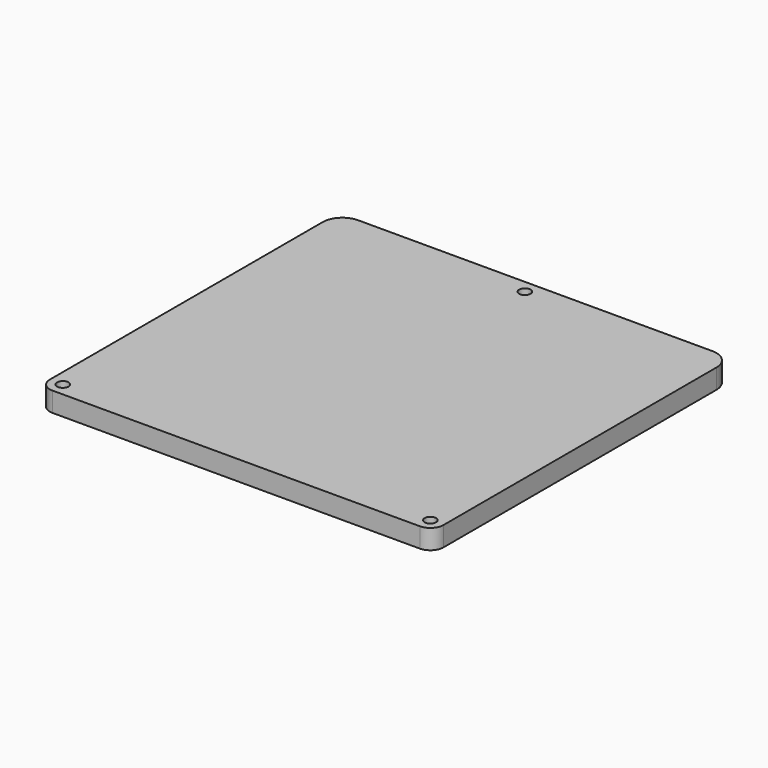
from build123d import *

# Parameters (mm, degrees)
F0_W     = 120
F0_H     = 114
F0_R     = 1.75
F1_DEPTH = 6
F2_R     = 6
F3_R     = 4


with BuildPart() as f1:
    # F0 (on Top) → F1 (new body)
    with BuildSketch(Plane.XY):
        with Locations((0, 3)):
            Rectangle(F0_W, F0_H)
        with Locations((-56, -50)):
            Circle(F0_R, mode=Mode.SUBTRACT)
        with Locations((56, -50)):
            Circle(F0_R, mode=Mode.SUBTRACT)
        with Locations((0, 56)):
            Circle(F0_R, mode=Mode.SUBTRACT)
    extrude(amount=F1_DEPTH)

    # F2
    f2_edges = [f1.edges().sort_by_distance(p)[0] for p in [
        (-60, 60, 3),
        (60, 60, 3),
    ]]
    fillet(f2_edges, radius=F2_R)

    # F3
    f3_edges = [f1.edges().sort_by_distance(p)[0] for p in [
        (-60, -54, 3),
        (60, -54, 3),
    ]]
    fillet(f3_edges, radius=F3_R)


solid = f1.part
